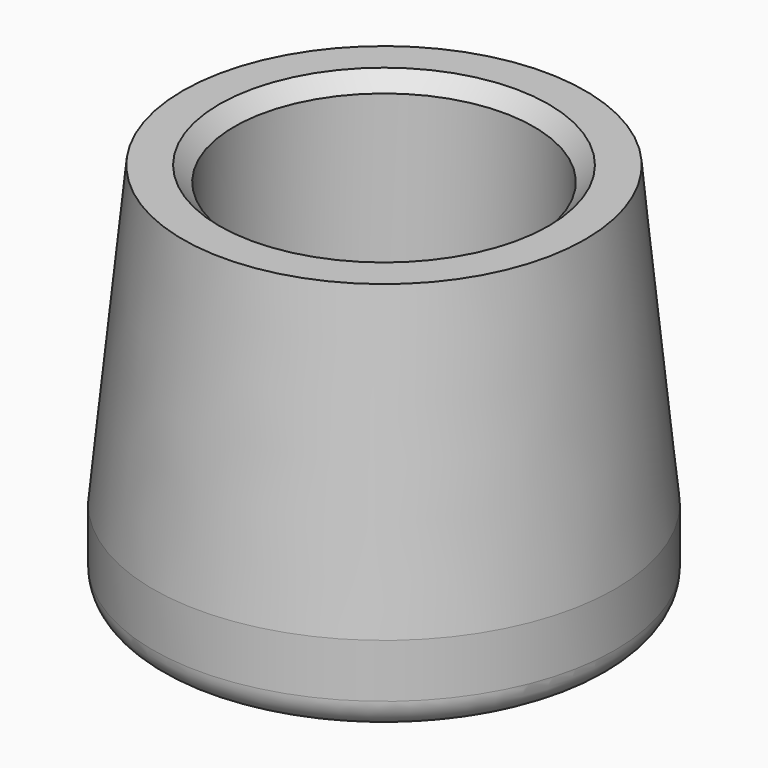
from build123d import *

# Parameters (mm, degrees)
F0_R     = 15.5
F0_R_2   = 10.05
F1_DEPTH = 6.5
F2_DEPTH = 25.6
F3_R     = 2
F4_SIZE2 = 2
F4_SIZE  = 20
F5_SIZE  = 1


with BuildPart() as f1:
    # F0 (on Top) → F1 (new body)
    with BuildSketch(Plane.XY):
        Circle(F0_R)
        Circle(F0_R_2, mode=Mode.SUBTRACT)
        Circle(F0_R_2)
    extrude(amount=F1_DEPTH)

    # F0 (on Top) → F2 (join)
    with BuildSketch(Plane.XY):
        Circle(F0_R)
        Circle(F0_R_2, mode=Mode.SUBTRACT)
    extrude(amount=F2_DEPTH)

    # F3
    f3_edges = [f1.edges().sort_by_distance(p)[0] for p in [
        (-15.5, 0, 0),
    ]]
    fillet(f3_edges, radius=F3_R)

    # F4
    f4_edges = [f1.edges().sort_by_distance(p)[0] for p in [
        (15.5, 0, 13.8),
        (-15.5, 0, 2),
        (-15.5, 0, 25.6),
    ]]
    f4_side = f1.faces().sort_by_distance((-15.5, 0, 13.8))[0]
    chamfer(f4_edges, length=F4_SIZE, length2=F4_SIZE2, reference=f4_side)

    # F5
    f5_edges = [f1.edges().sort_by_distance(p)[0] for p in [
        (-10.05, 0, 25.6),
    ]]
    chamfer(f5_edges, length=F5_SIZE)


solid = f1.part
